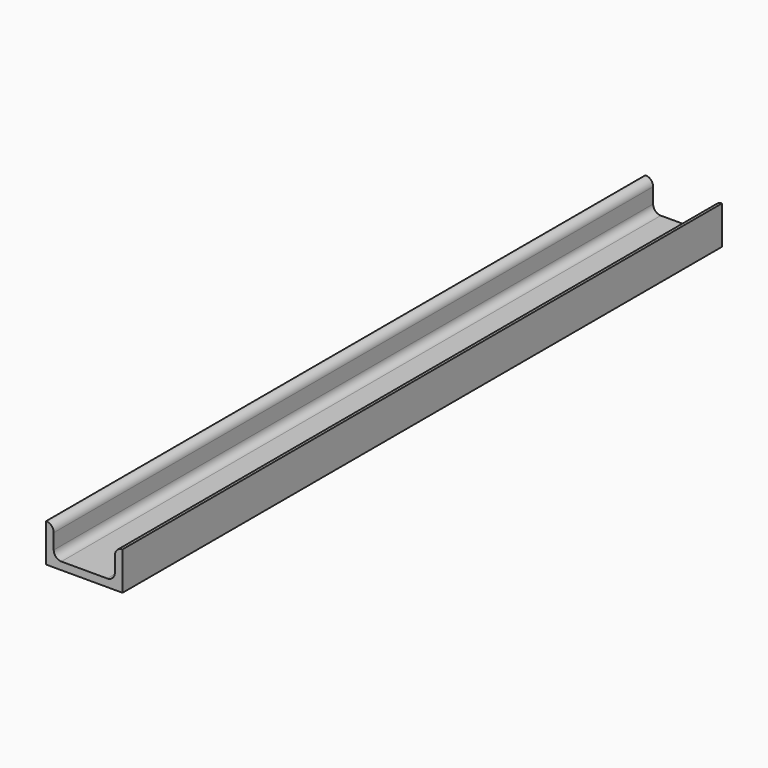
from build123d import *

# Parameters (mm, degrees)
F1_DEPTH = 588


with BuildPart() as f1:
    # F0 (on Front) → F1 (new body)
    with BuildSketch(Plane.XZ):
        with BuildLine():
            Line((0, 30), (0, 0))
            Line((0, 0), (60, 0))
            Line((60, 0), (60, 30))
            ThreePointArc((60, 30), (55.757359, 28.242641), (54, 24))
            Line((54, 24), (54, 12))
            ThreePointArc((54, 12), (52.242641, 7.757359), (48, 6))
            Line((48, 6), (12, 6))
            ThreePointArc((12, 6), (7.757359, 7.757359), (6, 12))
            Line((6, 12), (6, 24))
            ThreePointArc((6, 24), (4.242641, 28.242641), (0, 30))
        make_face()
    extrude(amount=F1_DEPTH)


solid = f1.part
